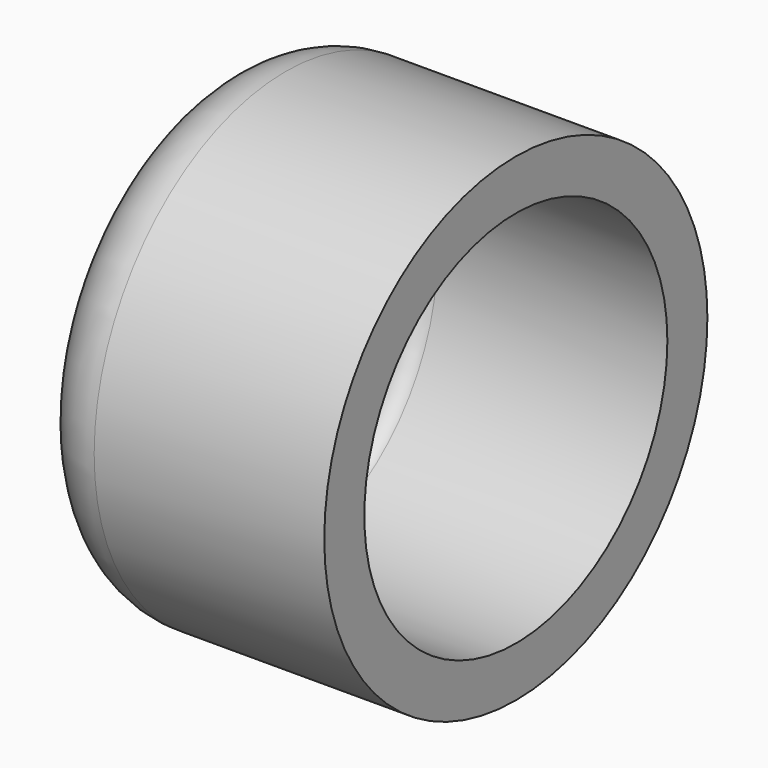
from build123d import *

# Parameters (mm, degrees)
F0_R     = 6.078895
F1_DEPTH = 7.62
F2_R     = 1.778
F3_T     = -1.27


with BuildPart() as f1:
    # F0 (on Right) → F1 (new body)
    with BuildSketch(Plane.YZ):
        Circle(F0_R)
    extrude(amount=F1_DEPTH)

    # F2
    f2_edges = [f1.edges().sort_by_distance(p)[0] for p in [
        (0, -6.078895, 0),
    ]]
    fillet(f2_edges, radius=F2_R)

    # F3
    f3_openings = [f1.faces().sort_by_distance(p)[0] for p in [
        (7.62, 0, 0),
    ]]
    offset(amount=F3_T, openings=f3_openings)


solid = f1.part
